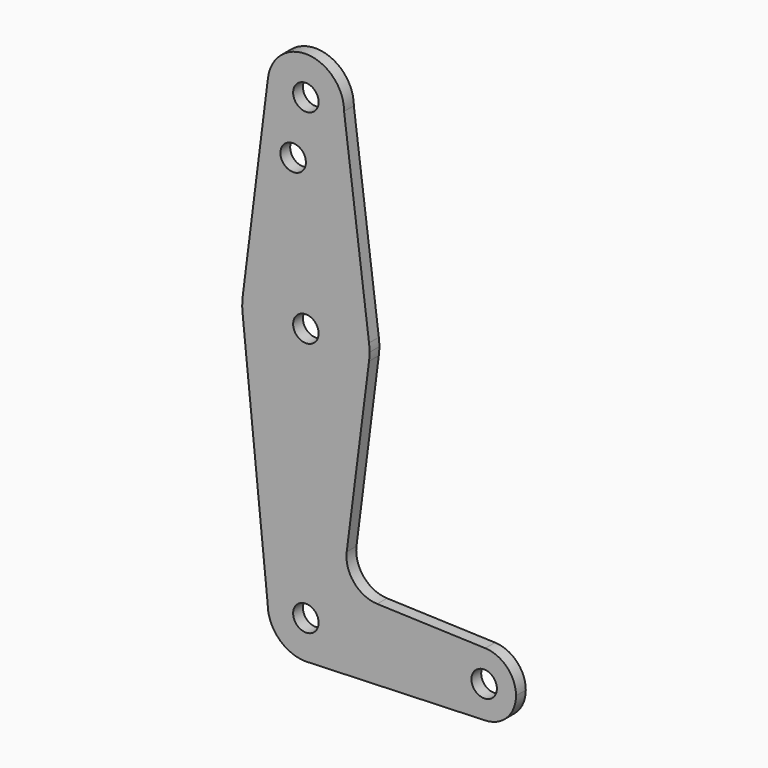
from build123d import *

# Parameters (mm, degrees)
F0_R     = 3.175
F1_DEPTH = 3.048


with BuildPart() as f1:
    # F0 (on Front) → F1 (new body)
    with BuildSketch(Plane.XZ):
        with BuildLine():
            ThreePointArc((-9.450293, 115.490625), (-0.596483, 104.793695), (9.525, 114.3))
            ThreePointArc((9.525, 114.3), (0.596483, 123.806305), (-9.450293, 115.490625))
        make_face()
        with Locations((0, 114.3)):
            Circle(F0_R, mode=Mode.SUBTRACT)
        with BuildLine():
            Line((15.747457, 65.508289), (9.525, 114.3))
            ThreePointArc((9.525, 114.3), (-0.596483, 104.793695), (-9.450293, 115.490625))
            Line((-9.450293, 115.490625), (-15.750488, 65.484375))
            ThreePointArc((-15.750488, 65.484375), (-0.012053, 79.374995), (15.747457, 65.508289))
        make_face()
        with Locations((-3.175, 100.0252)):
            Circle(F0_R, mode=Mode.SUBTRACT)
        with BuildLine():
            ThreePointArc((15.875, 63.5), (15.843082, 64.506168), (15.747457, 65.508289))
            ThreePointArc((15.747457, 65.508289), (-0.012053, 79.374995), (-15.750488, 65.484375))
            ThreePointArc((-15.750488, 65.484375), (-15.873819, 63.693615), (-15.794203, 61.90038))
            ThreePointArc((-15.794203, 61.90038), (-0.205667, 47.626332), (15.747457, 61.491711))
            ThreePointArc((15.747457, 61.491711), (15.843082, 62.493832), (15.875, 63.5))
        make_face()
        with Locations((0, 63.5)):
            Circle(F0_R, mode=Mode.SUBTRACT)
        with BuildLine():
            ThreePointArc((15.747457, 61.491711), (-0.205667, 47.626332), (-15.794203, 61.90038))
            Line((-15.794203, 61.90038), (-9.525, 0))
            ThreePointArc((-9.525, 0), (0, 9.525), (9.525, 0))
            ThreePointArc((9.525, 0), (6.970557, -6.491299), (0.677344, -9.500886))
            Line((0.677344, -9.500886), (44.732405, -7.932475))
            ThreePointArc((44.732405, -7.932475), (36.5125, 0), (44.732405, 7.932475))
            Line((44.732405, 7.932475), (17.784333, 8.891857))
            ThreePointArc((17.784333, 8.891857), (12.008013, 11.68998), (10.180863, 17.842775))
            Line((10.180863, 17.842775), (15.747457, 61.491711))
        make_face()
        with BuildLine():
            ThreePointArc((9.525, 0), (0, 9.525), (-9.525, 0))
            ThreePointArc((-9.525, 0), (-6.735192, -6.735192), (0, -9.525))
            Line((0, -9.525), (0.677344, -9.500886))
            ThreePointArc((0.677344, -9.500886), (6.970557, -6.491299), (9.525, 0))
        make_face()
        Circle(F0_R, mode=Mode.SUBTRACT)
        with BuildLine():
            Line((0.677344, -9.500886), (0, -9.525))
            ThreePointArc((0, -9.525), (0.338886, -9.51897), (0.677344, -9.500886))
        make_face()
        with BuildLine():
            ThreePointArc((52.3875, 0), (50.161633, 5.51191), (44.732405, 7.932475))
            ThreePointArc((44.732405, 7.932475), (36.5125, 0), (44.732405, -7.932475))
            ThreePointArc((44.732405, -7.932475), (50.161633, -5.51191), (52.3875, 0))
        make_face()
        with Locations((44.45, 0)):
            Circle(F0_R, mode=Mode.SUBTRACT)
    extrude(amount=F1_DEPTH)


solid = f1.part
